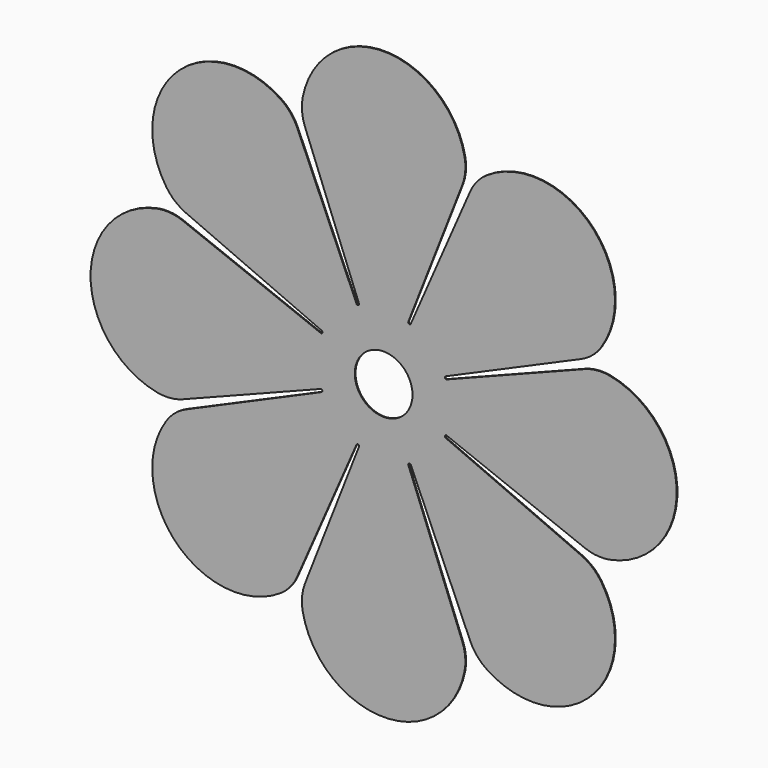
from build123d import *

# Parameters (mm, degrees)
F1_DEPTH = 0.05


with BuildPart() as f1:
    # F0 (on Front) → F1 (new body, symmetric)
    with BuildSketch(Plane.XZ):
        with BuildLine():
            ThreePointArc((-2.690905, 6.876757), (-2.692458, 6.77403), (-2.765534, 6.701815))
            ThreePointArc((-2.765534, 6.701815), (-2.774455, 6.698127), (-2.783371, 6.694427))
            ThreePointArc((-2.783371, 6.694427), (-2.886107, 6.693818), (-2.959844, 6.765359))
            Line((-2.959844, 6.765359), (-9.441598, 21.580797))
            ThreePointArc((-9.441598, 21.580797), (-10.179713, 22.775744), (-11.221047, 23.71826))
            ThreePointArc((-11.221047, 23.71826), (-22.627417, 22.627417), (-23.71826, 11.221047))
            ThreePointArc((-23.71826, 11.221047), (-22.775744, 10.179713), (-21.580797, 9.441598))
            Line((-21.580797, 9.441598), (-6.765359, 2.959844))
            ThreePointArc((-6.765359, 2.959844), (-6.693818, 2.886107), (-6.694427, 2.783371))
            ThreePointArc((-6.694427, 2.783371), (-6.698127, 2.774455), (-6.701815, 2.765534))
            ThreePointArc((-6.701815, 2.765534), (-6.77403, 2.692458), (-6.876757, 2.690905))
            Line((-6.876757, 2.690905), (-21.936146, 8.583709))
            ThreePointArc((-21.936146, 8.583709), (-23.303027, 8.906739), (-24.705821, 8.836865))
            ThreePointArc((-24.705821, 8.836865), (-32, 0), (-24.705821, -8.836865))
            ThreePointArc((-24.705821, -8.836865), (-23.303027, -8.906739), (-21.936146, -8.583709))
            Line((-21.936146, -8.583709), (-6.876757, -2.690905))
            ThreePointArc((-6.876757, -2.690905), (-6.77403, -2.692458), (-6.701815, -2.765534))
            ThreePointArc((-6.701815, -2.765534), (-6.698127, -2.774455), (-6.694427, -2.783371))
            ThreePointArc((-6.694427, -2.783371), (-6.693818, -2.886107), (-6.765359, -2.959844))
            Line((-6.765359, -2.959844), (-21.580797, -9.441598))
            ThreePointArc((-21.580797, -9.441598), (-22.775744, -10.179713), (-23.71826, -11.221047))
            ThreePointArc((-23.71826, -11.221047), (-22.627417, -22.627417), (-11.221047, -23.71826))
            ThreePointArc((-11.221047, -23.71826), (-10.179713, -22.775744), (-9.441598, -21.580797))
            Line((-9.441598, -21.580797), (-2.959844, -6.765359))
            ThreePointArc((-2.959844, -6.765359), (-2.886107, -6.693818), (-2.783371, -6.694427))
            ThreePointArc((-2.783371, -6.694427), (-2.774455, -6.698127), (-2.765534, -6.701815))
            ThreePointArc((-2.765534, -6.701815), (-2.692458, -6.77403), (-2.690905, -6.876757))
            Line((-2.690905, -6.876757), (-8.583709, -21.936146))
            ThreePointArc((-8.583709, -21.936146), (-8.906739, -23.303027), (-8.836865, -24.705821))
            ThreePointArc((-8.836865, -24.705821), (0, -32), (8.836865, -24.705821))
            ThreePointArc((8.836865, -24.705821), (8.906739, -23.303027), (8.583709, -21.936146))
            Line((8.583709, -21.936146), (2.690905, -6.876757))
            ThreePointArc((2.690905, -6.876757), (2.692458, -6.77403), (2.765534, -6.701815))
            ThreePointArc((2.765534, -6.701815), (2.774455, -6.698127), (2.783371, -6.694427))
            ThreePointArc((2.783371, -6.694427), (2.886107, -6.693818), (2.959844, -6.765359))
            Line((2.959844, -6.765359), (9.441598, -21.580797))
            ThreePointArc((9.441598, -21.580797), (10.179713, -22.775744), (11.221047, -23.71826))
            ThreePointArc((11.221047, -23.71826), (22.627417, -22.627417), (23.71826, -11.221047))
            ThreePointArc((23.71826, -11.221047), (22.775744, -10.179713), (21.580797, -9.441598))
            Line((21.580797, -9.441598), (6.765359, -2.959844))
            ThreePointArc((6.765359, -2.959844), (6.693818, -2.886107), (6.694427, -2.783371))
            ThreePointArc((6.694427, -2.783371), (6.698127, -2.774455), (6.701815, -2.765534))
            ThreePointArc((6.701815, -2.765534), (6.77403, -2.692458), (6.876757, -2.690905))
            Line((6.876757, -2.690905), (21.936146, -8.583709))
            ThreePointArc((21.936146, -8.583709), (23.303027, -8.906739), (24.705821, -8.836865))
            ThreePointArc((24.705821, -8.836865), (32, 0), (24.705821, 8.836865))
            ThreePointArc((24.705821, 8.836865), (23.303027, 8.906739), (21.936146, 8.583709))
            Line((21.936146, 8.583709), (6.876757, 2.690905))
            ThreePointArc((6.876757, 2.690905), (6.77403, 2.692458), (6.701815, 2.765534))
            ThreePointArc((6.701815, 2.765534), (6.698127, 2.774455), (6.694427, 2.783371))
            ThreePointArc((6.694427, 2.783371), (6.693818, 2.886107), (6.765359, 2.959844))
            Line((6.765359, 2.959844), (21.580797, 9.441598))
            ThreePointArc((21.580797, 9.441598), (22.775744, 10.179713), (23.71826, 11.221047))
            ThreePointArc((23.71826, 11.221047), (22.627417, 22.627417), (11.221047, 23.71826))
            ThreePointArc((11.221047, 23.71826), (10.179713, 22.775744), (9.441598, 21.580797))
            Line((9.441598, 21.580797), (2.959844, 6.765359))
            ThreePointArc((2.959844, 6.765359), (2.886107, 6.693818), (2.783371, 6.694427))
            ThreePointArc((2.783371, 6.694427), (2.774455, 6.698127), (2.765534, 6.701815))
            ThreePointArc((2.765534, 6.701815), (2.692458, 6.77403), (2.690905, 6.876757))
            Line((2.690905, 6.876757), (8.583709, 21.936146))
            ThreePointArc((8.583709, 21.936146), (8.906739, 23.303027), (8.836865, 24.705821))
            ThreePointArc((8.836865, 24.705821), (0, 32), (-8.836865, 24.705821))
            ThreePointArc((-8.836865, 24.705821), (-8.906739, 23.303027), (-8.583709, 21.936146))
            Line((-8.583709, 21.936146), (-2.690905, 6.876757))
        make_face()
        with BuildLine():
            ThreePointArc((1.147858, 2.933415), (2.601754, 1.775774), (3.15, 0))
            ThreePointArc((3.15, 0), (-2.601754, -1.775774), (1.147858, 2.933415))
        make_face(mode=Mode.SUBTRACT)
    extrude(amount=F1_DEPTH, both=True)


solid = f1.part
